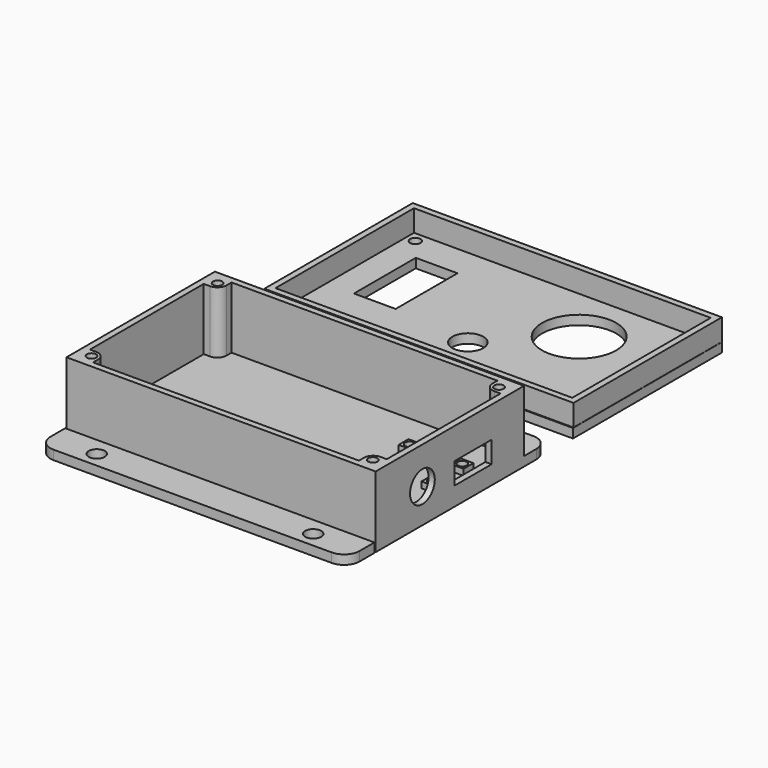
from build123d import *

# Parameters (mm, degrees)
SKETCH001_W   = 100
SKETCH001_H   = 20
PAD001_DEPTH  = 2
SKETCH002_W   = 100
SKETCH002_H   = 20
PAD002_DEPTH  = 2
SKETCH003_W   = 60
SKETCH003_H   = 20
PAD003_DEPTH  = 2
SKETCH004_W   = 60
SKETCH004_H   = 20
SKETCH004_R   = 5
SKETCH004_W_2 = 15
SKETCH004_H_2 = 7
PAD004_DEPTH  = 2
SKETCH005_R   = 2.6
PAD005_DEPTH  = 3
SKETCH006_R   = 2.6
PAD006_DEPTH  = 3
SKETCH007_R   = 1.5
PAD007_DEPTH  = 20
SKETCH008_R   = 1.5
PAD008_DEPTH  = 20
SKETCH009_R   = 1.5
PAD009_DEPTH  = 20
SKETCH010_R   = 1.5
PAD010_DEPTH  = 20
SKETCH011_W   = 4
SKETCH011_H   = 4
SKETCH011_R   = 1.5
PAD011_DEPTH  = 2
SKETCH012_W   = 4
SKETCH012_H   = 4
SKETCH012_R   = 1.5
PAD012_DEPTH  = 2
SKETCH013_W   = 4
SKETCH013_H   = 4
SKETCH013_R   = 1.5
PAD013_DEPTH  = 2
SKETCH014_W   = 4
SKETCH014_H   = 4
SKETCH014_R   = 1.5
PAD014_DEPTH  = 2
SKETCH_W      = 100
SKETCH_H      = 60
PAD_DEPTH     = 3
SKETCH016_W   = 100
SKETCH016_H   = 10
PAD016_DEPTH  = 2
SKETCH017_W   = 100
SKETCH017_H   = 10
PAD017_DEPTH  = 2
SKETCH018_W   = 60
SKETCH018_H   = 10
PAD018_DEPTH  = 2
SKETCH019_W   = 60
SKETCH019_H   = 10
PAD019_DEPTH  = 2
SKETCH015_W   = 100
SKETCH015_H   = 60
SKETCH015_R   = 1.7
SKETCH015_R_2 = 5
SKETCH015_R_3 = 12
SKETCH015_W_2 = 13.5
SKETCH015_H_2 = 25
PAD015_DEPTH  = 3


with BuildPart() as body001:
    # Sketch001 → Pad001 (new body)
    with BuildSketch(Plane.XZ):
        with Locations((0, 10)):
            Rectangle(SKETCH001_W, SKETCH001_H)
    extrude(amount=PAD001_DEPTH)


with BuildPart() as body001_1:
    # Body001 placement: moved
    add(body001.part.moved(Location((0, -28, 3))))


with BuildPart() as body002:
    # Sketch002 → Pad002 (new body)
    with BuildSketch(Plane.XZ):
        with Locations((0, 10)):
            Rectangle(SKETCH002_W, SKETCH002_H)
    extrude(amount=PAD002_DEPTH)


with BuildPart() as body002_1:
    # Body002 placement: moved
    add(body002.part.moved(Location((0, 30, 3))))


with BuildPart() as body003:
    # Sketch003 → Pad003 (new body)
    with BuildSketch(Plane.YZ):
        with Locations((0, 10)):
            Rectangle(SKETCH003_W, SKETCH003_H)
    extrude(amount=PAD003_DEPTH)


with BuildPart() as body003_1:
    # Body003 placement: moved
    add(body003.part.moved(Location((-50, 0, 3))))


with BuildPart() as body004:
    # Sketch004 → Pad004 (new body)
    with BuildSketch(Plane.YZ):
        with Locations((0, 10)):
            Rectangle(SKETCH004_W, SKETCH004_H)
        with Locations((-11.09, 8)):
            Circle(SKETCH004_R, mode=Mode.SUBTRACT)
        with Locations((9.36, 6.5)):
            Rectangle(SKETCH004_W_2, SKETCH004_H_2, mode=Mode.SUBTRACT)
    extrude(amount=PAD004_DEPTH)


with BuildPart() as body004_1:
    # Body004 placement: moved
    add(body004.part.moved(Location((48, 0, 3))))


with BuildPart() as body005:
    # Sketch005 → Pad005 (new body)
    with BuildSketch(Plane.XY):
        with BuildLine():
            Line((-45, 0), (45, 0))
            ThreePointArc((45, 0), (48.535534, 1.464466), (50, 5))
            Line((50, 5), (50, 11))
            Line((50, 11), (-50, 11))
            Line((-50, 11), (-50, 5))
            ThreePointArc((-50, 5), (-48.535534, 1.464466), (-45, 0))
        make_face()
        with Locations((-35, 5)):
            Circle(SKETCH005_R, mode=Mode.SUBTRACT)
        with Locations((35, 5)):
            Circle(SKETCH005_R, mode=Mode.SUBTRACT)
    extrude(amount=PAD005_DEPTH)


with BuildPart() as body005_1:
    # Body005 placement: moved
    add(body005.part.moved(Location((0, -41.5, 0))))


with BuildPart() as body006:
    # Sketch006 → Pad006 (new body)
    with BuildSketch(Plane.XY):
        with BuildLine():
            Line((-45, 10), (45, 10))
            ThreePointArc((50, 5), (48.535534, 8.535534), (45, 10))
            Line((50, 5), (50, 0))
            Line((50, 0), (-50, 0))
            Line((-50, 0), (-50, 5))
            ThreePointArc((-45, 10), (-48.535534, 8.535534), (-50, 5))
        make_face()
        with Locations((-35, 3.59)):
            Circle(SKETCH006_R, mode=Mode.SUBTRACT)
        with Locations((35, 3.59)):
            Circle(SKETCH006_R, mode=Mode.SUBTRACT)
    extrude(amount=PAD006_DEPTH)


with BuildPart() as body006_1:
    # Body006 placement: moved
    add(body006.part.moved(Location((0, 30, 0))))


with BuildPart() as body007:
    # Sketch007 → Pad007 (new body)
    with BuildSketch(Plane.XY):
        with BuildLine():
            Line((-5, 5), (0, 5))
            Line((0, 5), (0, 3))
            ThreePointArc((-3, 0), (-0.87868, 0.87868), (0, 3))
            Line((-3, 0), (-5, 0))
            Line((-5, 0), (-5, 5))
        make_face()
        with Locations((-2.5, 2.5)):
            Circle(SKETCH007_R, mode=Mode.SUBTRACT)
    extrude(amount=PAD007_DEPTH)


with BuildPart() as body007_1:
    # Body007 placement: moved
    add(body007.part.moved(Location((-43, 23, 3))))


with BuildPart() as body008:
    # Sketch008 → Pad008 (new body)
    with BuildSketch(Plane.XY):
        with BuildLine():
            Line((3, 0), (5, 0))
            Line((5, 0), (5, -5))
            Line((5, -5), (0, -5))
            Line((0, -5), (0, -3))
            ThreePointArc((3, 0), (0.87868, -0.87868), (0, -3))
        make_face()
        with Locations((2.5, -2.5)):
            Circle(SKETCH008_R, mode=Mode.SUBTRACT)
    extrude(amount=PAD008_DEPTH)


with BuildPart() as body008_1:
    # Body008 placement: moved
    add(body008.part.moved(Location((43, -23, 3))))


with BuildPart() as body009:
    # Sketch009 → Pad009 (new body)
    with BuildSketch(Plane.XY):
        with BuildLine():
            Line((0, 5), (5, 5))
            Line((5, 5), (5, 0))
            Line((5, 0), (3, 0))
            ThreePointArc((0, 3), (0.87868, 0.87868), (3, 0))
            Line((0, 3), (0, 5))
        make_face()
        with Locations((2.5, 2.5)):
            Circle(SKETCH009_R, mode=Mode.SUBTRACT)
    extrude(amount=PAD009_DEPTH)


with BuildPart() as body009_1:
    # Body009 placement: moved
    add(body009.part.moved(Location((43, 23, 3))))


with BuildPart() as body010:
    # Sketch010 → Pad010 (new body)
    with BuildSketch(Plane.XY):
        with BuildLine():
            Line((-5, 0), (-3, 0))
            ThreePointArc((0, -3), (-0.87868, -0.87868), (-3, 0))
            Line((0, -3), (0, -5))
            Line((0, -5), (-5, -5))
            Line((-5, -5), (-5, 0))
        make_face()
        with Locations((-2.5, -2.5)):
            Circle(SKETCH010_R, mode=Mode.SUBTRACT)
    extrude(amount=PAD010_DEPTH)


with BuildPart() as body010_1:
    # Body010 placement: moved
    add(body010.part.moved(Location((-43, -23, 3))))


with BuildPart() as body011:
    # Sketch011 → Pad011 (new body)
    with BuildSketch(Plane.XY):
        with Locations((25.83, -2)):
            Rectangle(SKETCH011_W, SKETCH011_H)
        with Locations((25.83, -2)):
            Circle(SKETCH011_R, mode=Mode.SUBTRACT)
    extrude(amount=PAD011_DEPTH)


with BuildPart() as body011_1:
    # Body011 placement: moved
    add(body011.part.moved(Location((17, 16, 3))))


with BuildPart() as body013:
    # Sketch012 → Pad012 (new body)
    with BuildSketch(Plane.XY):
        with Locations((25.83, -2)):
            Rectangle(SKETCH012_W, SKETCH012_H)
        with Locations((25.83, -2)):
            Circle(SKETCH012_R, mode=Mode.SUBTRACT)
    extrude(amount=PAD012_DEPTH)


with BuildPart() as body013_1:
    # Body013 placement: moved
    add(body013.part.moved(Location((0, 16, 3))))


with BuildPart() as body014:
    # Sketch013 → Pad013 (new body)
    with BuildSketch(Plane.XY):
        with Locations((25.83, -2)):
            Rectangle(SKETCH013_W, SKETCH013_H)
        with Locations((25.83, -2)):
            Circle(SKETCH013_R, mode=Mode.SUBTRACT)
    extrude(amount=PAD013_DEPTH)


with BuildPart() as body014_1:
    # Body014 placement: moved
    add(body014.part.moved(Location((0, 4, 3))))


with BuildPart() as body015:
    # Sketch014 → Pad014 (new body)
    with BuildSketch(Plane.XY):
        with Locations((25.83, -2)):
            Rectangle(SKETCH014_W, SKETCH014_H)
        with Locations((25.83, -2)):
            Circle(SKETCH014_R, mode=Mode.SUBTRACT)
    extrude(amount=PAD014_DEPTH)


with BuildPart() as body015_1:
    # Body015 placement: moved
    add(body015.part.moved(Location((17, 4, 3))))


with BuildPart() as fusion:
    # Sketch → Pad (new body)
    with BuildSketch(Plane.XY):
        Rectangle(SKETCH_W, SKETCH_H)
    extrude(amount=PAD_DEPTH)

    # Fusion: union Body001, Body002, Body003, Body004, Body005, Body006, Body007, Body008, Body009, Body010, Body011, Body013, Body014, Body015
    add(body001_1.part)
    add(body002_1.part)
    add(body003_1.part)
    add(body004_1.part)
    add(body005_1.part)
    add(body006_1.part)
    add(body007_1.part)
    add(body008_1.part)
    add(body009_1.part)
    add(body010_1.part)
    add(body011_1.part)
    add(body013_1.part)
    add(body014_1.part)
    add(body015_1.part)


with BuildPart() as body017:
    # Sketch016 → Pad016 (new body)
    with BuildSketch(Plane.XZ):
        with Locations((0, 5)):
            Rectangle(SKETCH016_W, SKETCH016_H)
    extrude(amount=PAD016_DEPTH)


with BuildPart() as body017_1:
    # Body017 placement: moved
    add(body017.part.moved(Location((0, 52, 0))))


with BuildPart() as body018:
    # Sketch017 → Pad017 (new body)
    with BuildSketch(Plane.XZ):
        with Locations((0, 5)):
            Rectangle(SKETCH017_W, SKETCH017_H)
    extrude(amount=PAD017_DEPTH)


with BuildPart() as body018_1:
    # Body018 placement: moved
    add(body018.part.moved(Location((0, 110, 0))))


with BuildPart() as body019:
    # Sketch018 → Pad018 (new body)
    with BuildSketch(Plane.YZ):
        with Locations((0, 5)):
            Rectangle(SKETCH018_W, SKETCH018_H)
    extrude(amount=PAD018_DEPTH)


with BuildPart() as body019_1:
    # Body019 placement: moved
    add(body019.part.moved(Location((-50, 80, 0))))


with BuildPart() as body020:
    # Sketch019 → Pad019 (new body)
    with BuildSketch(Plane.YZ):
        with Locations((0, 5)):
            Rectangle(SKETCH019_W, SKETCH019_H)
    extrude(amount=PAD019_DEPTH)


with BuildPart() as body020_1:
    # Body020 placement: moved
    add(body020.part.moved(Location((48, 80, 0))))


with BuildPart() as fusion001:
    # Sketch015 → Pad015 (new body)
    with BuildSketch(Plane.XY):
        with Locations((0.07, 79.69)):
            Rectangle(SKETCH015_W, SKETCH015_H)
        with Locations((-44.93, 104.69)):
            Circle(SKETCH015_R, mode=Mode.SUBTRACT)
        with Locations((44.93, 104.69)):
            Circle(SKETCH015_R, mode=Mode.SUBTRACT)
        with Locations((44.93, 54.69)):
            Circle(SKETCH015_R, mode=Mode.SUBTRACT)
        with Locations((-44.93, 54.69)):
            Circle(SKETCH015_R, mode=Mode.SUBTRACT)
        with Locations((0.07, 69.69)):
            Circle(SKETCH015_R_2, mode=Mode.SUBTRACT)
        with Locations((20.07, 89.69)):
            Circle(SKETCH015_R_3, mode=Mode.SUBTRACT)
        with Locations((-32.34, 85.08)):
            Rectangle(SKETCH015_W_2, SKETCH015_H_2, mode=Mode.SUBTRACT)
    extrude(amount=PAD015_DEPTH)

    # Fusion001: union Body017, Body018, Body019, Body020
    add(body017_1.part)
    add(body018_1.part)
    add(body019_1.part)
    add(body020_1.part)


solid = Compound([fusion.part, fusion001.part])
